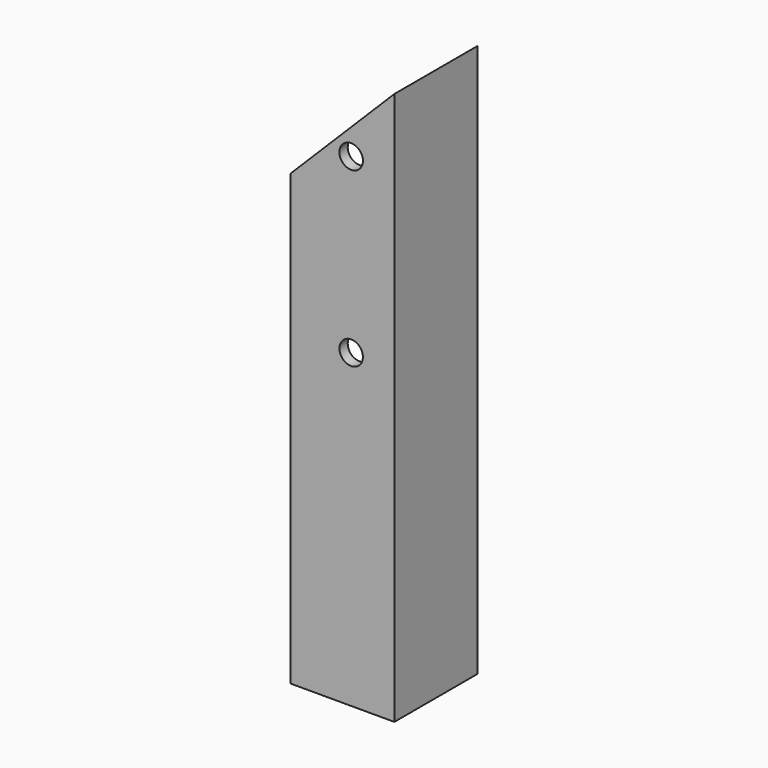
from build123d import *

# Parameters (mm, degrees)
F1_DEPTH = 160
F2_R     = 3
F4_DEPTH = 30.001
F6_D     = 6.8


with BuildPart() as f1:
    # F0 (on Top) → F1 (new body)
    with BuildSketch(Plane.XY):
        Polygon((0, 3), (0, 0), (30, 0), (30, 30), (27, 30), (27, 3), align=None)
    extrude(amount=F1_DEPTH)

    # F2
    f2_edges = [f1.edges().sort_by_distance(p)[0] for p in [
        (27, 3, 80),
    ]]
    fillet(f2_edges, radius=F2_R)

    # F3 (on face) → F4 (cut, through all)
    with BuildSketch(Plane.XZ):
        Polygon((-10, 120), (40, 170), (-10, 170), align=None)
    extrude(amount=-F4_DEPTH, mode=Mode.SUBTRACT)

    # F6 (through all)
    with Locations(Plane.XZ):
        with Locations((17.5, 140), (17.5, 90)):
            Hole(F6_D / 2)


solid = f1.part
